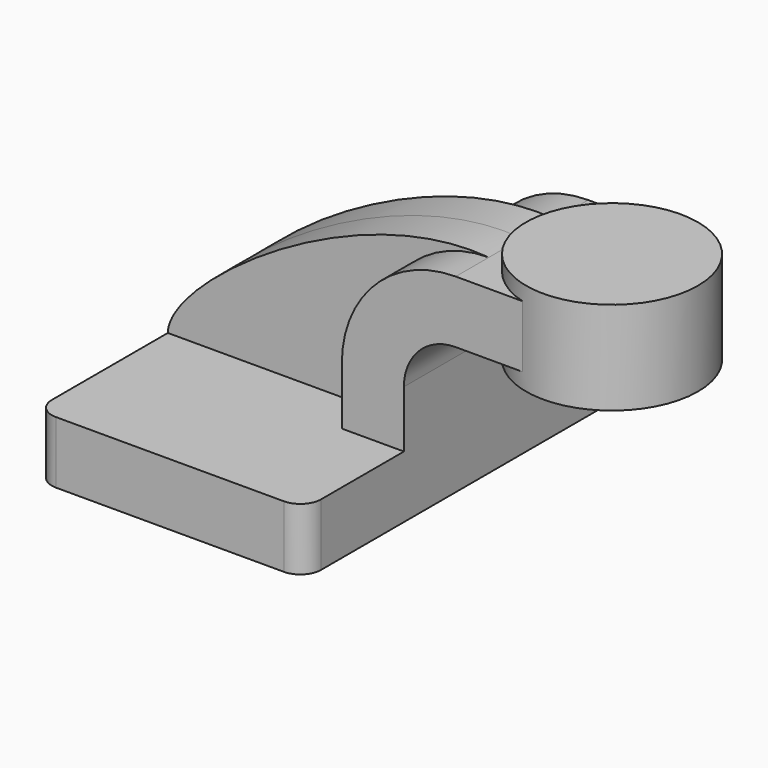
from build123d import *

# Parameters (mm, degrees)
F1_DEPTH = 63.5
F0_W     = 24.4387735501
F0_H     = 19.05
F2_DEPTH = 25.4
F3_DEPTH = 12.7
F4_DEPTH = 25.4
F6_R     = 6.35


with BuildPart() as f1:
    # F0 (on Front) → F1 (new body, symmetric)
    with BuildSketch(Plane.XZ):
        Polygon((-41.275, 9.525), (-41.275, -9.525), (41.275, -9.525), (41.275, 9.525), (22.225, 9.525), align=None)
    extrude(amount=F1_DEPTH, both=True)

    # F0 (on Front) → F2 (join, symmetric)
    with BuildSketch(Plane.XZ):
        with BuildLine():
            Line((22.225, 9.525), (41.275, 9.525))
            Line((41.275, 9.525), (41.275, 27.0002))
            ThreePointArc((41.275, 27.0002), (45.9246798487, 38.2255201513), (57.15, 42.8752))
            Line((57.15, 42.8752), (60.325, 42.8752))
            Line((60.325, 42.8752), (60.325, 61.9252))
            Line((60.325, 61.9252), (57.15, 61.9252))
            ThreePointArc((57.15, 61.9252), (32.4542956671, 51.6959043329), (22.225, 27.0002))
            Line((22.225, 27.0002), (22.225, 9.525))
        make_face()
        with Locations((72.5443867751, 52.4002)):
            Rectangle(F0_W, F0_H)
    extrude(amount=F2_DEPTH, both=True)

    # F0 (on Front) → F3 (join, symmetric)
    with BuildSketch(Plane.XZ):
        with BuildLine():
            add(Edge.make_bspline(
                [(-41.275, 9.525), (-41.1736518145, 24.6508456767), (15.0934131816, 65.3959661722), (57.15, 61.9252)],
                knots=[0, 0, 0, 0, 111.5045361635, 111.5045361635, 111.5045361635, 111.5045361635], degree=3))
            Line((-41.275, 9.525), (22.225, 9.525))
            Line((22.225, 9.525), (22.225, 27.0002))
            ThreePointArc((22.225, 27.0002), (32.4542956671, 51.6959043329), (57.15, 61.9252))
        make_face()
    extrude(amount=F3_DEPTH, both=True)

    # F0 (on Front) → F4 (join, symmetric)
    with BuildSketch(Plane.XZ):
        with Locations((72.5443867751, 52.4002)):
            Rectangle(F0_W, F0_H)
    extrude(amount=F4_DEPTH, both=True)

    # F0 (on Front) → F5 (revolve)
    with BuildSketch(Plane.XZ):
        Polygon((84.7637735501, 66.675), (84.7637735501, 61.9252), (84.7637735501, 42.8752), (84.7637735501, 38.1), (111.125, 38.1), (111.125, 66.675), align=None)
    revolve(axis=Axis((84.7637735501, 0, 52.3875), (0, 0, 1)))

    # F6
    f6_edges = [f1.edges().sort_by_distance(p)[0] for p in [
        (-41.275, -63.5, 0),
        (41.275, -63.5, 0),
        (41.275, 63.5, 0),
        (-41.275, 63.5, 0),
    ]]
    fillet(f6_edges, radius=F6_R)


solid = f1.part
